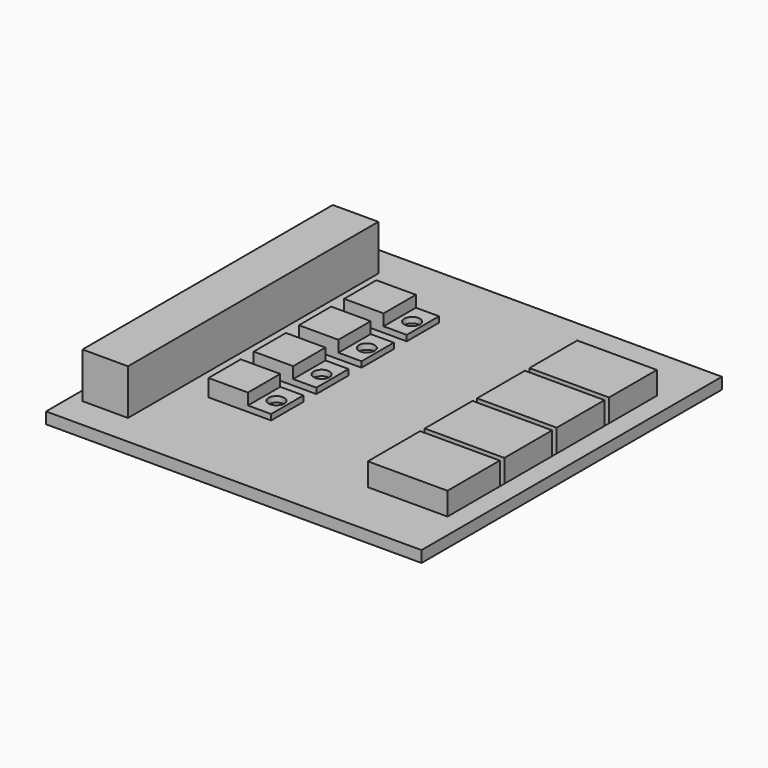
from build123d import *

# Parameters (mm, degrees)
F0_W     = 66
F0_H     = 66
F0_W_2   = 8
F0_H_2   = 55
F1_DEPTH = 2
F0_W_3   = 14
F0_H_3   = 10.5
F0_H_4   = 11.5
F2_DEPTH = 6
F3_DEPTH = 10
F0_W_4   = 4.0717534721
F0_H_5   = 7.087867707
F0_R     = 1.3859466119
F4_DEPTH = 3
F0_W_5   = 6.9370614365
F5_DEPTH = 5
F6_DEPTH = 2


with BuildPart() as f1:
    # F0 (on Top) → F1 (new body)
    with BuildSketch(Plane.XY):
        with Locations((33, 33)):
            Rectangle(F0_W, F0_H)
        Polygon((21.7376640153, 17.1879483869), (14.8006025788, 17.1879483869), (14.8006025788, 24.275816094), (21.7376640153, 24.275816094), (25.8094174874, 24.275816094), (25.8094174874, 17.1879483869), align=None, mode=Mode.SUBTRACT)
        Polygon((21.6838878947, 27.1878037923), (14.7468264583, 27.1878037923), (14.7468264583, 34.2756714994), (21.6838878947, 34.2756714994), (25.7556413668, 34.2756714994), (25.7556413668, 27.1878037923), align=None, mode=Mode.SUBTRACT)
        with Locations((6, 33)):
            Rectangle(F0_W_2, F0_H_2, mode=Mode.SUBTRACT)
        Polygon((21.6301117742, 37.1876591977), (14.6930503377, 37.1876591977), (14.6930503377, 44.2755269048), (21.6301117742, 44.2755269048), (25.7018652463, 44.2755269048), (25.7018652463, 37.1876591977), align=None, mode=Mode.SUBTRACT)
        Polygon((21.5763356537, 47.1875146031), (14.6392742172, 47.1875146031), (14.6392742172, 54.2753823102), (21.5763356537, 54.2753823102), (25.6480891258, 54.2753823102), (25.6480891258, 47.1875146031), align=None, mode=Mode.SUBTRACT)
        Polygon((48.5562719405, 45.5), (48.5562719405, 56), (62.5562719405, 56), (62.5562719405, 45.5), (62.5562719405, 44.5), (62.5562719405, 34), (62.5562719405, 33), (62.5562719405, 22.5), (62.5562719405, 21.5), (62.5562719405, 10), (48.5562719405, 10), (48.5562719405, 21.5), (48.5562719405, 22.5), (48.5562719405, 33), (48.5562719405, 34), (48.5562719405, 44.5), align=None, mode=Mode.SUBTRACT)
    extrude(amount=F1_DEPTH)

    # F0 (on Top) → F2 (join)
    with BuildSketch(Plane.XY):
        with Locations((55.5562719405, 50.75)):
            Rectangle(F0_W_3, F0_H_3)
        with Locations((55.5562719405, 39.25)):
            Rectangle(F0_W_3, F0_H_3)
        with Locations((55.5562719405, 27.75)):
            Rectangle(F0_W_3, F0_H_3)
        with Locations((55.5562719405, 15.75)):
            Rectangle(F0_W_3, F0_H_4)
    extrude(amount=F2_DEPTH)

    # F0 (on Top) → F3 (join)
    with BuildSketch(Plane.XY):
        with Locations((6, 33)):
            Rectangle(F0_W_2, F0_H_2)
    extrude(amount=F3_DEPTH)

    # F0 (on Top) → F4 (join)
    with BuildSketch(Plane.XY):
        with Locations((23.6122123897, 50.7314484566)):
            Rectangle(F0_W_4, F0_H_5)
        with Locations((23.7425714731, 50.7314484566)):
            Circle(F0_R, mode=Mode.SUBTRACT)
        with Locations((23.6659885103, 40.7315930512)):
            Rectangle(F0_W_4, F0_H_5)
        with Locations((23.7963475937, 40.7315930512)):
            Circle(F0_R, mode=Mode.SUBTRACT)
        with Locations((23.7197646308, 30.7317376458)):
            Rectangle(F0_W_4, F0_H_5)
        with Locations((23.8501237142, 30.7317376458)):
            Circle(F0_R, mode=Mode.SUBTRACT)
        with Locations((23.7735407513, 20.7318822405)):
            Rectangle(F0_W_4, F0_H_5)
        with Locations((23.9038998348, 20.7318822405)):
            Circle(F0_R, mode=Mode.SUBTRACT)
    extrude(amount=F4_DEPTH)

    # F0 (on Top) → F5 (join)
    with BuildSketch(Plane.XY):
        with Locations((18.1078049354, 50.7314484566)):
            Rectangle(F0_W_5, F0_H_5)
        with Locations((18.161581056, 40.7315930512)):
            Rectangle(F0_W_5, F0_H_5)
        with Locations((18.2153571765, 30.7317376458)):
            Rectangle(F0_W_5, F0_H_5)
        with Locations((18.2691332971, 20.7318822405)):
            Rectangle(F0_W_5, F0_H_5)
    extrude(amount=F5_DEPTH)

    # F0 (on Top) → F6 (join)
    with BuildSketch(Plane.XY):
        with Locations((23.7425714731, 50.7314484566)):
            Circle(F0_R)
        with Locations((23.7963475937, 40.7315930512)):
            Circle(F0_R)
        with Locations((23.8501237142, 30.7317376458)):
            Circle(F0_R)
        with Locations((23.9038998348, 20.7318822405)):
            Circle(F0_R)
    extrude(amount=F6_DEPTH)


solid = f1.part
